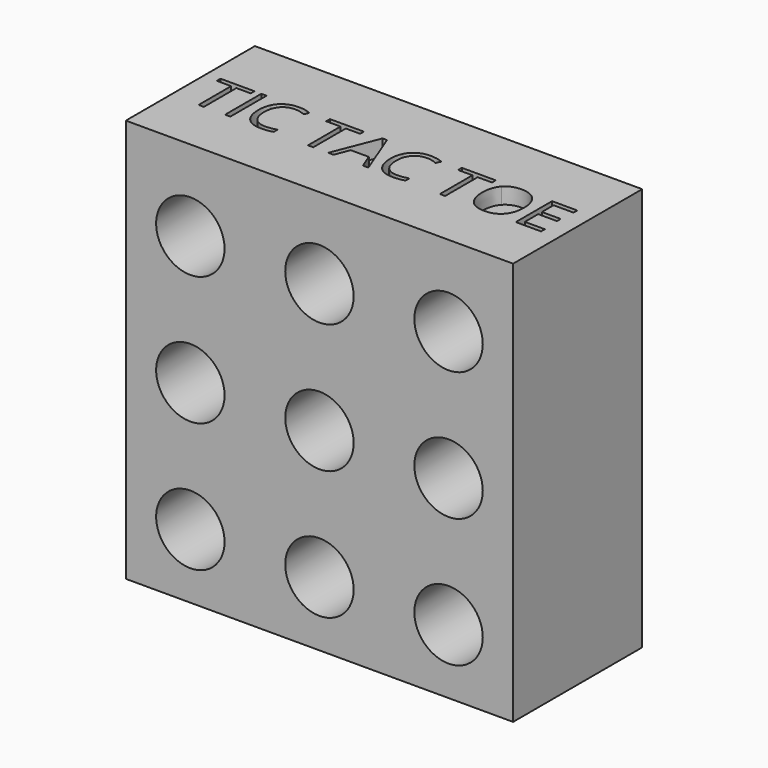
from build123d import *

# Parameters (mm, degrees)
F0_W      = 76.2
F0_H      = 76.1999971091
F1_DEPTH  = 31.75
F2_R      = 6.731
F3_DEPTH  = 50.8
F5_R      = 6.731
F6_DEPTH  = 31.75
F7_DEPTH  = 31.751
F8_R      = 6.731
F9_DEPTH  = 31.751
F10_R     = 6.731
F11_DEPTH = 31.751
F12_R     = 6.731
F13_DEPTH = 31.751
F14_R     = 6.731
F15_DEPTH = 31.751
F16_R     = 6.731
F17_DEPTH = 31.751
F18_R     = 6.731
F19_DEPTH = 31.751
F20_W     = 76.2
F20_H     = 31.75
F20_W_2   = 1.036552576
F20_H_2   = 8.9190371367
F21_DEPTH = 3.175


with BuildPart() as f1:
    # F0 (on Front) → F1 (new body)
    with BuildSketch(Plane.XZ):
        with Locations((-9.3718003482, 13.2883749902)):
            Rectangle(F0_W, F0_H)
    extrude(amount=F1_DEPTH)

    # F2 (on face) → F3 (cut)
    with BuildSketch(Plane.XZ.offset(31.75)):
        with Locations((-9.3718003482, 13.2883735448)):
            Circle(F2_R)
    extrude(amount=-F3_DEPTH, mode=Mode.SUBTRACT)

    # F5 (on face) → F6 (cut)
    with BuildSketch(Plane.XZ.offset(31.75)):
        with Locations((16.0281996518, 38.6883735448)):
            Circle(F5_R)
    extrude(amount=-F6_DEPTH, mode=Mode.SUBTRACT)

    # F5 (on face) → F7 (cut, through all)
    with BuildSketch(Plane.XZ.offset(31.75)):
        with Locations((16.0281996518, 13.2883735448)):
            Circle(F5_R)
    extrude(amount=-F7_DEPTH, mode=Mode.SUBTRACT)

    # F8 (on face) → F9 (cut, through all)
    with BuildSketch(Plane(origin=(0, 0, 0), x_dir=(-1, 0, 0), z_dir=(0, 1, 0))):
        with Locations((9.3718003482, 38.6883735448)):
            Circle(F8_R)
    extrude(amount=-F9_DEPTH, mode=Mode.SUBTRACT)

    # F10 (on face) → F11 (cut, through all)
    with BuildSketch(Plane.XZ.offset(31.75)):
        with Locations((-34.7718003482, 38.6883735448)):
            Circle(F10_R)
    extrude(amount=-F11_DEPTH, mode=Mode.SUBTRACT)

    # F12 (on face) → F13 (cut, through all)
    with BuildSketch(Plane.XZ.offset(31.75)):
        with Locations((-34.7718003482, 13.2883735448)):
            Circle(F12_R)
    extrude(amount=-F13_DEPTH, mode=Mode.SUBTRACT)

    # F14 (on face) → F15 (cut, through all)
    with BuildSketch(Plane.XZ.offset(31.75)):
        with Locations((-34.7718003482, -12.1116235643)):
            Circle(F14_R)
    extrude(amount=-F15_DEPTH, mode=Mode.SUBTRACT)

    # F16 (on face) → F17 (cut, through all)
    with BuildSketch(Plane.XZ.offset(31.75)):
        with Locations((-9.3718003482, -12.1116235643)):
            Circle(F16_R)
    extrude(amount=-F17_DEPTH, mode=Mode.SUBTRACT)

    # F18 (on face) → F19 (cut, through all)
    with BuildSketch(Plane.XZ.offset(31.75)):
        with Locations((16.0281996518, -12.1116235643)):
            Circle(F18_R)
    extrude(amount=-F19_DEPTH, mode=Mode.SUBTRACT)

    # F20 (on face) → F21 (join)
    with BuildSketch(Plane.XY.offset(51.3883735448)):
        with Locations((-9.3718003482, -15.875)):
            Rectangle(F20_W, F20_H)
        Polygon((-40.9612769216, -12.6892459309), (-40.9612769216, -20.686903), (-41.9978294976, -20.686903), (-41.9978294976, -12.6892459309), (-44.822484069, -12.6892459309), (-44.822484069, -11.7678658633), (-38.1366223502, -11.7678658633), (-38.1366223502, -12.6892459309), align=None, mode=Mode.SUBTRACT)
        with Locations((-36.2753174892, -16.2273844317)):
            Rectangle(F20_W_2, F20_H_2, mode=Mode.SUBTRACT)
        with BuildLine():
            add(Edge.make_bspline(
                [(-27.46657267, -13.0425717618), (-28.4797003289, -12.5682171932), (-29.4928279879, -12.5682171932)],
                knots=[0, 0, 0, 1, 1, 1], degree=2))
            add(Edge.make_bspline(
                [(-29.4928279879, -12.5682171932), (-30.9627415279, -12.5682171932), (-31.8138468445, -13.5471835149)],
                knots=[0, 0, 0, 1, 1, 1], degree=2))
            add(Edge.make_bspline(
                [(-31.8138468445, -13.5471835149), (-32.6649521611, -14.5261498367), (-32.6649521611, -16.2283604699)],
                knots=[0, 0, 0, 1, 1, 1], degree=2))
            add(Edge.make_bspline(
                [(-32.6649521611, -16.2283604699), (-32.6649521611, -17.977420937), (-31.8441040289, -18.9329623418)],
                knots=[0, 0, 0, 1, 1, 1], degree=2))
            add(Edge.make_bspline(
                [(-31.8441040289, -18.9329623418), (-31.0232558967, -19.8885037466), (-29.5045404464, -19.8885037466)],
                knots=[0, 0, 0, 1, 1, 1], degree=2))
            add(Edge.make_bspline(
                [(-29.5045404464, -19.8885037466), (-28.5714479204, -19.8885037466), (-27.3748250785, -19.5527466033)],
                knots=[0, 0, 0, 1, 1, 1], degree=2))
            Line((-27.3748250785, -19.5527466033), (-27.3748250785, -20.4604621359))
            add(Edge.make_bspline(
                [(-27.3748250785, -20.4604621359), (-28.3020613753, -20.8098838141), (-29.662658636, -20.8098838141)],
                knots=[0, 0, 0, 1, 1, 1], degree=2))
            add(Edge.make_bspline(
                [(-29.662658636, -20.8098838141), (-31.6323037379, -20.8098838141), (-32.7030176512, -19.6132609722)],
                knots=[0, 0, 0, 1, 1, 1], degree=2))
            add(Edge.make_bspline(
                [(-32.7030176512, -19.6132609722), (-33.7737315644, -18.4166381302), (-33.7737315644, -16.214695935)],
                knots=[0, 0, 0, 1, 1, 1], degree=2))
            add(Edge.make_bspline(
                [(-33.7737315644, -16.214695935), (-33.7737315644, -14.8365299865), (-33.258383391, -13.7999774106)],
                knots=[0, 0, 0, 1, 1, 1], degree=2))
            add(Edge.make_bspline(
                [(-33.258383391, -13.7999774106), (-32.7430352176, -12.7634248346), (-31.7699251252, -12.2022028655)],
                knots=[0, 0, 0, 1, 1, 1], degree=2))
            add(Edge.make_bspline(
                [(-31.7699251252, -12.2022028655), (-30.7968150327, -11.6409808964), (-29.479163453, -11.6409808964)],
                knots=[0, 0, 0, 1, 1, 1], degree=2))
            add(Edge.make_bspline(
                [(-29.479163453, -11.6409808964), (-28.0775725876, -11.6409808964), (-27.0273554768, -12.1524249169)],
                knots=[0, 0, 0, 1, 1, 1], degree=2))
            Line((-27.0273554768, -12.1524249169), (-27.46657267, -13.0425717618))
        make_face(mode=Mode.SUBTRACT)
        Polygon((-19.4376823782, -12.6892459309), (-19.4376823782, -20.686903), (-20.4742349542, -20.686903), (-20.4742349542, -12.6892459309), (-23.2988895256, -12.6892459309), (-23.2988895256, -11.7678658633), (-16.6130278068, -11.7678658633), (-16.6130278068, -12.6892459309), align=None, mode=Mode.SUBTRACT)
        Polygon((-8.5899937443, -20.686903), (-9.6636357721, -20.686903), (-10.7743672518, -17.8505359701), (-14.3486191663, -17.8505359701), (-15.4456861111, -20.686903), (-16.4959032219, -20.686903), (-12.9704532178, -11.7307764115), (-12.0978750606, -11.7307764115), align=None, mode=Mode.SUBTRACT)
        with BuildLine():
            add(Edge.make_bspline(
                [(-1.5195729719, -13.0425717618), (-2.5327006309, -12.5682171932), (-3.5458282899, -12.5682171932)],
                knots=[0, 0, 0, 1, 1, 1], degree=2))
            add(Edge.make_bspline(
                [(-3.5458282899, -12.5682171932), (-5.0157418298, -12.5682171932), (-5.8668471464, -13.5471835149)],
                knots=[0, 0, 0, 1, 1, 1], degree=2))
            add(Edge.make_bspline(
                [(-5.8668471464, -13.5471835149), (-6.717952463, -14.5261498367), (-6.717952463, -16.2283604699)],
                knots=[0, 0, 0, 1, 1, 1], degree=2))
            add(Edge.make_bspline(
                [(-6.717952463, -16.2283604699), (-6.717952463, -17.977420937), (-5.8971043308, -18.9329623418)],
                knots=[0, 0, 0, 1, 1, 1], degree=2))
            add(Edge.make_bspline(
                [(-5.8971043308, -18.9329623418), (-5.0762561986, -19.8885037466), (-3.5575407483, -19.8885037466)],
                knots=[0, 0, 0, 1, 1, 1], degree=2))
            add(Edge.make_bspline(
                [(-3.5575407483, -19.8885037466), (-2.6244482223, -19.8885037466), (-1.4278253804, -19.5527466033)],
                knots=[0, 0, 0, 1, 1, 1], degree=2))
            Line((-1.4278253804, -19.5527466033), (-1.4278253804, -20.4604621359))
            add(Edge.make_bspline(
                [(-1.4278253804, -20.4604621359), (-2.3550616772, -20.8098838141), (-3.7156589379, -20.8098838141)],
                knots=[0, 0, 0, 1, 1, 1], degree=2))
            add(Edge.make_bspline(
                [(-3.7156589379, -20.8098838141), (-5.6853040399, -20.8098838141), (-6.7560179531, -19.6132609722)],
                knots=[0, 0, 0, 1, 1, 1], degree=2))
            add(Edge.make_bspline(
                [(-6.7560179531, -19.6132609722), (-7.8267318663, -18.4166381302), (-7.8267318663, -16.214695935)],
                knots=[0, 0, 0, 1, 1, 1], degree=2))
            add(Edge.make_bspline(
                [(-7.8267318663, -16.214695935), (-7.8267318663, -14.8365299865), (-7.3113836929, -13.7999774106)],
                knots=[0, 0, 0, 1, 1, 1], degree=2))
            add(Edge.make_bspline(
                [(-7.3113836929, -13.7999774106), (-6.7960355196, -12.7634248346), (-5.8229254271, -12.2022028655)],
                knots=[0, 0, 0, 1, 1, 1], degree=2))
            add(Edge.make_bspline(
                [(-5.8229254271, -12.2022028655), (-4.8498153346, -11.6409808964), (-3.532163755, -11.6409808964)],
                knots=[0, 0, 0, 1, 1, 1], degree=2))
            add(Edge.make_bspline(
                [(-3.532163755, -11.6409808964), (-2.1305728895, -11.6409808964), (-1.0803557787, -12.1524249169)],
                knots=[0, 0, 0, 1, 1, 1], degree=2))
            Line((-1.0803557787, -12.1524249169), (-1.5195729719, -13.0425717618))
        make_face(mode=Mode.SUBTRACT)
        Polygon((6.5093173199, -12.6892459309), (6.5093173199, -20.686903), (5.4727647439, -20.686903), (5.4727647439, -12.6892459309), (2.6481101725, -12.6892459309), (2.6481101725, -11.7678658633), (9.3339718913, -11.7678658633), (9.3339718913, -12.6892459309), align=None, mode=Mode.SUBTRACT)
        with BuildLine():
            add(Edge.make_bspline(
                [(17.3394372661, -12.8473641204), (18.4189355232, -14.0674118793), (18.4189355232, -16.214695935)],
                knots=[0, 0, 0, 1, 1, 1], degree=2))
            add(Edge.make_bspline(
                [(18.4189355232, -16.214695935), (18.4189355232, -18.3561237614), (17.3355331133, -19.5830037877)],
                knots=[0, 0, 0, 1, 1, 1], degree=2))
            add(Edge.make_bspline(
                [(17.3355331133, -19.5830037877), (16.2521307034, -20.8098838141), (14.3254312825, -20.8098838141)],
                knots=[0, 0, 0, 1, 1, 1], degree=2))
            add(Edge.make_bspline(
                [(14.3254312825, -20.8098838141), (12.3557861805, -20.8098838141), (11.2850722673, -19.6044766283)],
                knots=[0, 0, 0, 1, 1, 1], degree=2))
            add(Edge.make_bspline(
                [(11.2850722673, -19.6044766283), (10.2143583541, -18.3990694425), (10.2143583541, -16.2029834765)],
                knots=[0, 0, 0, 1, 1, 1], degree=2))
            add(Edge.make_bspline(
                [(10.2143583541, -16.2029834765), (10.2143583541, -14.0244661982), (11.2880003819, -12.8258912799)],
                knots=[0, 0, 0, 1, 1, 1], degree=2))
            add(Edge.make_bspline(
                [(11.2880003819, -12.8258912799), (12.3616424098, -11.6273163615), (14.337143741, -11.6273163615)],
                knots=[0, 0, 0, 1, 1, 1], degree=2))
            add(Edge.make_bspline(
                [(14.337143741, -11.6273163615), (16.259939009, -11.6273163615), (17.3394372661, -12.8473641204)],
                knots=[0, 0, 0, 1, 1, 1], degree=2))
        make_face(mode=Mode.SUBTRACT)
        Polygon((25.3780879399, -19.7596667032), (25.3780879399, -20.686903), (20.4061493129, -20.686903), (20.4061493129, -11.7678658633), (25.3780879399, -11.7678658633), (25.3780879399, -12.6892459309), (21.4427018888, -12.6892459309), (21.4427018888, -15.5627024126), (25.1399346174, -15.5627024126), (25.1399346174, -16.4782262509), (21.4427018888, -16.4782262509), (21.4427018888, -19.7596667032), align=None, mode=Mode.SUBTRACT)
    extrude(amount=F21_DEPTH)


solid = f1.part
